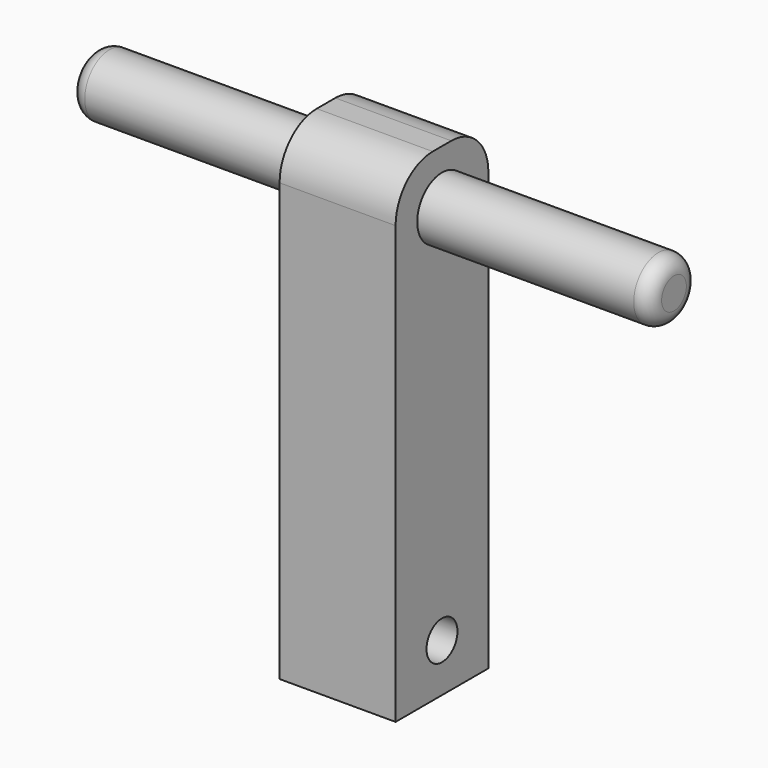
from build123d import *

# Parameters (mm, degrees)
F0_W     = 15
F0_H     = 15
F1_DEPTH = 62.5
F3_R     = 6
F4_R     = 6
F2_R     = 4
F5_DEPTH = 30
F6_R     = 4
F7_DEPTH = 30
F9_D     = 5
F10_R    = 2
F11_R    = 2


with BuildPart() as f1:
    # F0 (on Top) → F1 (new body)
    with BuildSketch(Plane.XY):
        Rectangle(F0_W, F0_H)
    extrude(amount=F1_DEPTH)

    # F3
    f3_edges = [f1.edges().sort_by_distance(p)[0] for p in [
        (0, -7.5, 62.5),
    ]]
    fillet(f3_edges, radius=F3_R)

    # F4
    f4_edges = [f1.edges().sort_by_distance(p)[0] for p in [
        (0, 7.5, 62.5),
    ]]
    fillet(f4_edges, radius=F4_R)

    # F2 (on face) → F5 (join)
    with BuildSketch(Plane(origin=(-7.5, 0, 0), x_dir=(0, -1, 0), z_dir=(-1, 0, 0))):
        with Locations((0, 55.5)):
            Circle(F2_R)
    extrude(amount=F5_DEPTH)

    # F6 (on face) → F7 (join)
    with BuildSketch(Plane.YZ.offset(7.5)):
        with Locations((0, 55.5)):
            Circle(F6_R)
    extrude(amount=F7_DEPTH)

    # F9 (through all)
    with Locations(Plane(origin=(-7.5, 0, 0), x_dir=(0, -1, 0), z_dir=(-1, 0, 0))):
        with Locations((0, 6.25)):
            Hole(F9_D / 2)

    # F10
    f10_edges = [f1.edges().sort_by_distance(p)[0] for p in [
        (37.5, -4, 55.5),
    ]]
    fillet(f10_edges, radius=F10_R)

    # F11
    f11_edges = [f1.edges().sort_by_distance(p)[0] for p in [
        (-37.5, 4, 55.5),
    ]]
    fillet(f11_edges, radius=F11_R)


solid = f1.part
